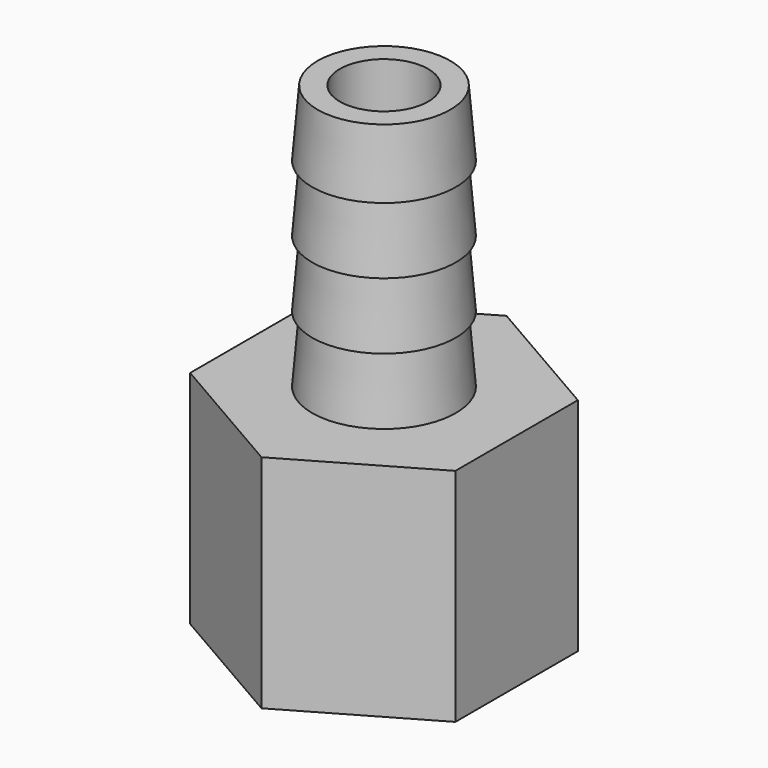
from build123d import *

# Parameters (mm, degrees)
F1_DEPTH = 31.75
F4_R     = 6.35
F5_DEPTH = 101.6
F6_R     = 16.66875
F7_DEPTH = 25.4


with BuildPart() as f1:
    # F0 (on Top) → F1 (new body)
    with BuildSketch(Plane.XY):
        Polygon((19.05, 10.998523), (0, 21.997045), (-19.05, 10.998523), (-19.05, -10.998523), (0, -21.997045), (19.05, -10.998523), align=None)
    extrude(amount=F1_DEPTH)

    # F2 (on Front) → F3 (revolve)
    with BuildSketch(Plane.XZ):
        Polygon((0, 31.75), (0, 69.85), (-9.525, 69.85), (-10.31875, 60.325), (-9.525, 60.325), (-10.31875, 50.8), (-9.525, 50.8), (-10.31875, 41.275), (-9.525, 41.275), (-10.31875, 31.75), align=None)
    revolve(axis=Axis((0, 0, 50.8), (0, 0, -1)))

    # F4 (on face) → F5 (cut)
    with BuildSketch(Plane.XY.offset(69.85)):
        Circle(F4_R)
    extrude(amount=-F5_DEPTH, mode=Mode.SUBTRACT)

    # F6 (on face) → F7 (cut)
    with BuildSketch(Plane(origin=(0, 0, 0), x_dir=(1, 0, 0), z_dir=(0, 0, -1))):
        Circle(F6_R)
    extrude(amount=-F7_DEPTH, mode=Mode.SUBTRACT)


solid = f1.part
